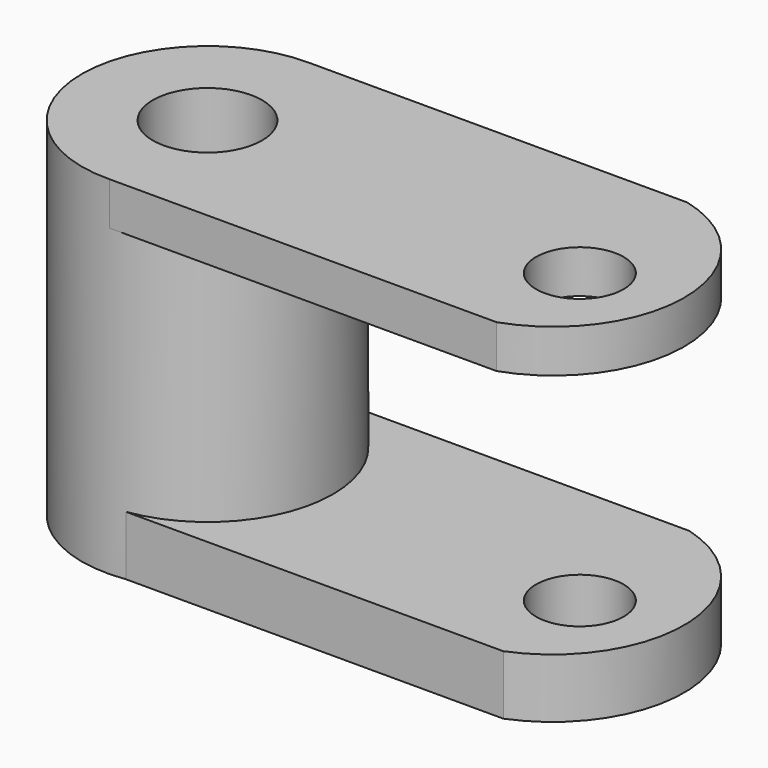
from build123d import *

# Parameters (mm, degrees)
F0_R     = 37.0686538278
F1_DEPTH = 102.616
F2_R     = 16.1254555479
F3_DEPTH = 147.828
F5_DEPTH = 12.7
F7_DEPTH = 17.526
F8_R     = 12.9146046276
F9_DEPTH = 296.926


with BuildPart() as f1:
    # F0 (on Top) → F1 (new body)
    with BuildSketch(Plane.XY):
        with Locations((-39.4473746419, -5.9636109509)):
            Circle(F0_R)
    extrude(amount=F1_DEPTH)

    # F2 (on face) → F3 (cut)
    with BuildSketch(Plane.XY.offset(102.616)):
        with Locations((-39.4473746419, -5.9636109509)):
            Circle(F2_R)
    extrude(amount=-F3_DEPTH, mode=Mode.SUBTRACT)

    # F4 (on face) → F5 (join)
    with BuildSketch(Plane.XY.offset(102.616)):
        with BuildLine():
            Line((72.5051784355, 31.0990400833), (-38.7802952426, 31.0990400833))
            ThreePointArc((-38.7802952426, 31.0990400833), (-13.0010815941, 20.0109666326), (-2.3787208141, -5.9636109509))
            ThreePointArc((-2.3787208141, -5.9636109509), (-13.0010815941, -31.9381885343), (-38.7802952426, -43.026261985))
            Line((-38.7802952426, -43.026261985), (75.5315870047, -43.026261985))
            ThreePointArc((75.5315870047, -43.026261985), (101.6520252983, -4.8353768612), (72.5051784355, 31.0990400833))
        make_face()
    extrude(amount=-F5_DEPTH)

    # F6 (on face) → F7 (join)
    with BuildSketch(Plane(origin=(0, 0, 0), x_dir=(1, 0, 0), z_dir=(0, 0, -1))):
        with BuildLine():
            Line((77.2129268269, 42.6493844966), (-34.133325719, 42.6493844966))
            ThreePointArc((-34.133325719, 42.6493844966), (-11.4199796813, 30.2236651208), (-2.3787208141, 5.9636109509))
            ThreePointArc((-2.3787208141, 5.9636109509), (-12.4294067676, -19.4158001643), (-37.1312376734, -31.0326132639))
            Line((-37.1312376734, -31.0326132639), (73.1777138929, -31.0326132639))
            ThreePointArc((73.1777138929, -31.0326132639), (101.6060825642, 4.3619936552), (77.2129268269, 42.6493844966))
        make_face()
    extrude(amount=-F7_DEPTH)

    # F8 (on face) → F9 (cut)
    with BuildSketch(Plane(origin=(0, 0, 0), x_dir=(1, 0, 0), z_dir=(0, 0, -1))):
        with Locations((75.1953125, 11.8927843869)):
            Circle(F8_R)
    extrude(amount=-F9_DEPTH, mode=Mode.SUBTRACT)


solid = f1.part
